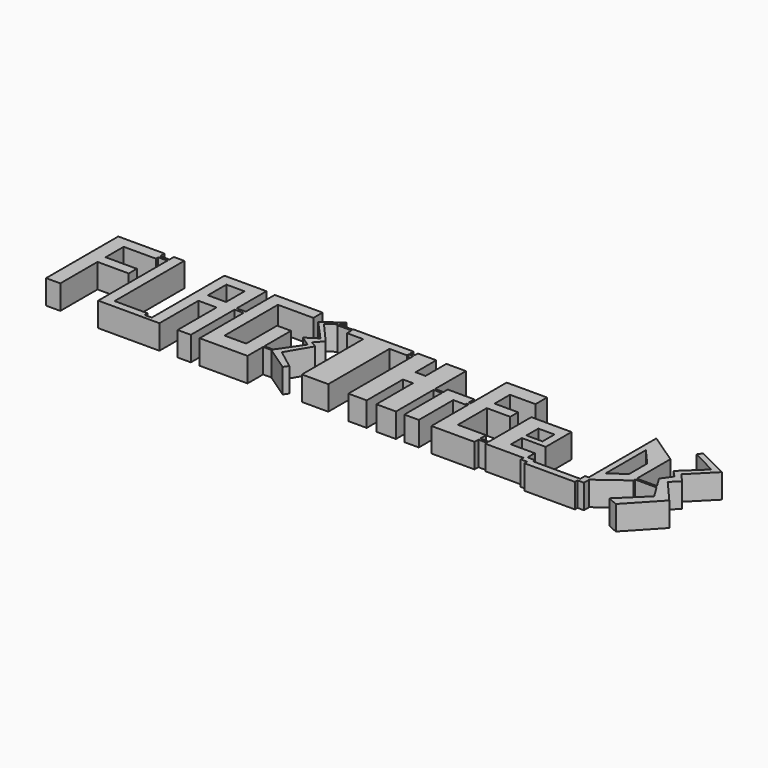
from build123d import *

# Parameters (mm, degrees)
F0_W     = 3.0946135521
F0_H     = 2.216280438
F0_W_2   = 3.4210085869
F0_H_2   = 3.5269353539
F0_W_3   = 2.2048056126
F0_H_3   = 2.6158541441
F0_W_4   = 5.976587534
F0_H_4   = 2.4974802509
F0_W_5   = 17.086148262
F0_H_5   = 14.3096456304
F0_H_6   = 5.9801498428
F0_W_6   = 16.8725550175
F0_W_7   = 8.1159174442
F0_H_7   = 15.5911063775
F0_H_8   = 12.1738770977
F0_W_8   = 8.9702308178
F0_W_9   = 3.3033788204
F0_W_10  = 15.5911147594
F0_H_9   = 15.1639524847
F0_H_10  = 10.251685977
F0_W_11  = 24.5613157749
F0_H_11  = 20.0762189925
F0_H_12  = 15.1639506221
F0_W_12  = 26.6970992088
F0_W_13  = 7.3466598988
F0_H_13  = 2.6071723551
F0_W_14  = 2.1357536316
F0_W_15  = 3.5534501076
F0_W_16  = 4.1363239288
F0_H_14  = 2.0857369527
F0_W_17  = 15.1639580727
F0_H_15  = 45.0647030957
F0_W_18  = 8.7566375732
F0_W_19  = 13.0281746387
F0_H_16  = 16.4454141632
F0_W_20  = 10.4652643204
F0_W_21  = 12.8146111965
F0_W_22  = 4.9122571945
F0_H_17  = 2.0175669342
F0_W_23  = 2.6585608721
F0_W_24  = 27.5513976812
F0_H_18  = 8.5430704057
F0_H_19  = 80.0913013518
F0_W_25  = 3.3793151379
F0_W_26  = 3.8181245327
F0_H_20  = 1.8906878671
F0_W_27  = 14.9934300457
F1_DEPTH = 25.4
F0_W_28  = 14.5472735167
F0_H_21  = 16.3432322443
F0_W_29  = 22.6290971041
F0_W_30  = 12.9309073091
F0_W_31  = 10.7757598162
F0_H_22  = 12.0329298079
F0_W_32  = 37.1763706207
F0_W_33  = 3.1519979239
F0_H_23  = 2.8678886592
F0_W_34  = 9.4031319022
F0_W_35  = 3.087900579
F0_W_36  = 13.8288959861
F0_H_24  = 51.0052535683
F0_H_25  = 24.2454539984
F0_H_26  = 11.3145448267
F0_W_37  = 19.037168473
F0_W_38  = 11.1349485815
F0_H_27  = 12.3921222985
F0_W_39  = 3.3698491752
F0_H_28  = 3.8613136858
F0_W_40  = 7.363434881
F0_W_41  = 10.9553541988
F0_H_29  = 7.7226273715
F0_W_42  = 3.4250831231
F0_H_30  = 2.6191230863
F0_W_43  = 9.6981818788
F0_W_44  = 2.780482173
F0_W_45  = 14.9064622819
F0_H_31  = 48.6705061048
F0_W_46  = 32.6864663512
F0_H_32  = 10.5961617082
F0_H_33  = 23.7066671252
F0_H_34  = 11.494141072


with BuildPart() as f1:
    # F0 (on Top) → F1 (new body)
    with BuildSketch(Plane.XY):
        Polygon((561.4933371544, -13.4736336768), (556.5618872643, -13.4736336768), (564.8164749146, -26.9472673535), (538.4017825127, -52.5999590755), (548.8152503967, -57.171728462), (579.0397524834, -24.9153729528), (557.4508309364, 0), (566.3064261608, 7.6732847192), (557.8295573884, 17.4562813584), (581.3255906105, 41.1212593317), (548.5612750053, 57.6304197311), (545.5134510994, 52.8046637774), (571.6741085052, 39.3433496356), (549.0692257881, 18.0084388703), (555.8641440733, 10.8090494471), (548.307299614, 0), (555.2040886502, -11.2573532388), (561.4933371544, -11.2573532388), align=None)
        Polygon((555.2040886502, -11.2573532388), (556.5618872643, -13.4736336768), (561.4933371544, -13.4736336768), (561.4933371544, -11.2573532388), align=None)
        Polygon((534.0840220451, -11.2573532388), (534.0840220451, -13.4736336768), (556.5618872643, -13.4736336768), (555.2040886502, -11.2573532388), align=None)
        with Locations((532.5367152691, -12.3654934578)):
            Rectangle(F0_W, F0_H)
        Polygon((502.0816326141, 54.3285869062), (502.0816326141, -34.2004597187), (504.9177408218, -34.2004597187), (504.9177408218, -37.0453285351), (534.0840220451, -15.5178513378), (534.0840220451, -13.4736336768), (530.989408493, -13.4736336768), (530.989408493, -11.2573532388), (534.0840220451, -11.2573532388), (534.0840220451, 32.739687711), align=None)
        Polygon((524.1785049438, -8.9141884819), (508.4313154221, -20.089616999), (508.4313154221, 32.739687711), (524.1785049438, 14.7066069767), align=None, mode=Mode.SUBTRACT)
        Polygon((504.9177408218, -34.2004597187), (502.0816326141, -34.2004597187), (502.0816326141, -39.1386449337), (504.9177408218, -37.0453285351), align=None)
        Polygon((498.2718527317, -34.2004597187), (498.2718527317, -40.4663495719), (498.2718527317, -43.9932849258), (504.9177408218, -43.9932849258), (504.9177408218, -37.0453285351), (502.0816326141, -39.1386449337), (502.0816326141, -34.2004597187), align=None)
        Polygon((448.8635361195, -43.9932849258), (445.4425275326, -43.9932849258), (445.4425275326, -47.5202202797), (498.2718527317, -47.5202202797), (498.2718527317, -43.9932849258), (498.2718527317, -40.4663495719), (448.8635361195, -40.4663495719), align=None)
        with Locations((447.153031826, -42.2298172489)):
            Rectangle(F0_W_2, F0_H_2)
        Polygon((440.9003555775, -40.4663495719), (438.6955499649, -40.4663495719), (438.6955499649, -43.9932849258), (445.4425275326, -43.9932849258), (445.4425275326, -40.4663495719), (448.8635361195, -40.4663495719), (448.8635361195, -37.8504954278), (440.9003555775, -37.8504954278), align=None)
        with Locations((439.7979527712, -39.1584224999)):
            Rectangle(F0_W_3, F0_H_3)
        Polygon((440.9003555775, -28.292471543), (415.9118831158, -28.292471543), (415.9118831158, -40.4663495719), (438.6955499649, -40.4663495719), (438.6955499649, -37.8504954278), (440.9003555775, -37.8504954278), align=None)
        Polygon((398.8257348537, -28.292471543), (398.8257348537, -35.8744477853), (404.8023223877, -35.8744477853), (404.8023223877, -38.3719280362), (398.8257348537, -38.3719280362), (398.8257348537, -40.4663495719), (415.9118831158, -40.4663495719), (415.9118831158, -28.292471543), align=None)
        with Locations((401.8140286207, -37.1231879108)):
            Rectangle(F0_W_4, F0_H_4)
        with Locations((407.3688089848, -21.1376487277)):
            Rectangle(F0_W_5, F0_H_5)
        with Locations((407.3688089848, -10.9927509911)):
            Rectangle(F0_W_5, F0_H_6)
        with Locations((424.3481606245, -10.9927509911)):
            Rectangle(F0_W_6, F0_H_6)
        with Locations((436.8423968554, -10.9927509911)):
            Rectangle(F0_W_7, F0_H_6)
        with Locations((436.8423968554, -0.207122881)):
            Rectangle(F0_W_7, F0_H_7)
        with Locations((436.8423968554, 13.6753688566)):
            Rectangle(F0_W_7, F0_H_8)
        with Locations((424.3481606245, 13.6753688566)):
            Rectangle(F0_W_6, F0_H_8)
        with Locations((407.3688089848, 13.6753688566)):
            Rectangle(F0_W_5, F0_H_8)
        with Locations((407.3688089848, -0.207122881)):
            Rectangle(F0_W_5, F0_H_7)
        with Locations((394.3406194448, -37.1231879108)):
            Rectangle(F0_W_8, F0_H_4)
        with Locations((388.2038146257, -37.1231879108)):
            Rectangle(F0_W_9, F0_H_4)
        Polygon((389.8555040359, -28.292471543), (360.3819012642, -28.292471543), (360.3819012642, -43.4564240277), (389.8555040359, -43.4564240277), (389.8555040359, -38.3719280362), (386.5521252155, -38.3719280362), (386.5521252155, -35.8744477853), (389.8555040359, -35.8744477853), align=None)
        with Locations((352.5863438845, -35.8744477853)):
            Rectangle(F0_W_10, F0_H_9)
        Polygon((344.7907865047, 9.5106214285), (344.7907865047, 8.0357193947), (352.1374464035, 8.0357193947), (352.1374464035, 5.4285470396), (344.7907865047, 5.4285470396), (344.7907865047, -28.292471543), (360.3819012642, -28.292471543), (360.3819012642, 9.5106214285), align=None)
        with Locations((352.5863438845, 14.636464417)):
            Rectangle(F0_W_10, F0_H_10)
        with Locations((372.6625591516, 14.636464417)):
            Rectangle(F0_W_11, F0_H_10)
        with Locations((352.5863438845, 29.8004169017)):
            Rectangle(F0_W_10, F0_H_11)
        with Locations((352.5863438845, 47.420501709)):
            Rectangle(F0_W_10, F0_H_12)
        with Locations((373.7304508686, 47.420501709)):
            Rectangle(F0_W_12, F0_H_12)
        with Locations((348.4641164541, 6.7321332172)):
            Rectangle(F0_W_13, F0_H_13)
        with Locations((343.7229096889, 6.7321332172)):
            Rectangle(F0_W_14, F0_H_13)
        with Locations((340.8783078194, 6.7321332172)):
            Rectangle(F0_W_15, F0_H_13)
        Polygon((342.6550328732, 15.2771892026), (330.0540149212, 15.2771892026), (330.0540149212, 3.5304655321), (342.6550328732, 3.5304655321), (342.6550328732, 5.4285470396), (339.1015827656, 5.4285470396), (339.1015827656, 8.0357193947), (342.6550328732, 8.0357193947), align=None)
        Polygon((314.8900568485, 15.2771892026), (314.8900568485, 9.6000181511), (319.0263807774, 9.6000181511), (319.0263807774, 7.5142811984), (314.8900568485, 7.5142811984), (314.8900568485, 3.5304655321), (330.0540149212, 3.5304655321), (330.0540149212, 15.2771892026), align=None)
        with Locations((316.9582188129, 8.5571496747)):
            Rectangle(F0_W_16, F0_H_14)
        with Locations((322.4720358849, -19.0018860158)):
            Rectangle(F0_W_17, F0_H_15)
        with Locations((310.5117380619, 8.5571496747)):
            Rectangle(F0_W_18, F0_H_14)
        Polygon((285.6300473213, 50.0902086496), (285.6300473213, 22.7523781359), (298.6582219601, 22.7523781359), (298.6582219601, 6.3069639727), (285.6300473213, 6.3069639727), (285.6300473213, -41.5342375636), (306.1334192753, -41.5342375636), (306.1334192753, 7.5142811984), (306.1334192753, 9.6000181511), (306.1334192753, 50.0902086496), align=None)
        with Locations((292.1441346407, 14.5296710543)):
            Rectangle(F0_W_19, F0_H_16)
        with Locations((280.3974151611, 14.5296710543)):
            Rectangle(F0_W_20, F0_H_16)
        with Locations((268.7574774027, 14.5296710543)):
            Rectangle(F0_W_21, F0_H_16)
        Polygon((255.942851305, 49.8766303062), (255.942851305, 46.0322480649), (259.3221664429, 46.0322480649), (259.3221664429, 44.0146811306), (255.942851305, 44.0146811306), (255.942851305, -41.1070883274), (275.1647830009, -41.1070883274), (275.1647830009, 6.3069639727), (262.3501718044, 6.3069639727), (262.3501718044, 22.7523781359), (275.1647830009, 22.7523781359), (275.1647830009, 49.8766303062), align=None)
        with Locations((253.4867227077, 45.0234645978)):
            Rectangle(F0_W_22, F0_H_17)
        with Locations((249.7013136744, 45.0234645978)):
            Rectangle(F0_W_23, F0_H_17)
        Polygon((251.0305941105, 50.3037832677), (232.6629906893, 50.3037832677), (232.6629906893, 41.760712862), (251.0305941105, 41.760712862), (251.0305941105, 44.0146811306), (248.3720332384, 44.0146811306), (248.3720332384, 46.0322480649), (251.0305941105, 46.0322480649), align=None)
        with Locations((218.8872918487, 46.0322480649)):
            Rectangle(F0_W_24, F0_H_18)
        with Locations((218.8872918487, 1.7150621861)):
            Rectangle(F0_W_24, F0_H_19)
        with Locations((257.6325088739, 45.0234645978)):
            Rectangle(F0_W_25, F0_H_17)
        Polygon((188.2390230894, 50.3037832677), (188.2390230894, 49.6702144286), (192.0571476221, 49.6702144286), (192.0571476221, 47.7795265615), (188.2390230894, 47.7795265615), (188.2390230894, 41.760712862), (205.111593008, 41.760712862), (205.111593008, 50.3037832677), align=None)
        with Locations((190.1480853558, 48.724870495)):
            Rectangle(F0_W_26, F0_H_20)
        with Locations((180.7423080666, 48.724870495)):
            Rectangle(F0_W_27, F0_H_20)
    extrude(amount=F1_DEPTH)


with BuildPart() as f1b:
    # F0 (on Top) → F1, piece 2 (new body)
    with BuildSketch(Plane.XY):
        Polygon((163.1175577641, -20.1217327267), (158.5196463977, -20.1217327267), (184.4628882256, -37.8241861746), (187.6897425745, -33.0951771159), (167.6543205976, -17.8761240095), (182.5125664473, 7.2685936466), (175.9878607109, 11.1241025154), (183.6555153131, 19.5869654417), (163.0825549364, 42.953774333), (173.2455930438, 49.6702144286), (177.6868104935, 52.60527879), (176.0358959436, 56.1611019075), (157.3678553104, 42.5727926195), (177.0518422127, 20.9838934243), (164.8604720831, 13.1102958694), (175.6549179554, 5.7446714491), (159.072301054, -18.5574311763), (163.1175577641, -18.5574311763), align=None)
        Polygon((158.1684254524, -19.8820759993), (158.5196463977, -20.1217327267), (163.1175577641, -20.1217327267), (163.1175577641, -18.5574311763), (159.072301054, -18.5574311763), align=None)
        Polygon((149.8471796513, -18.5574311763), (149.8471796513, -20.1217327267), (158.5196463977, -20.1217327267), (158.1684254524, -19.8820759993), (159.072301054, -18.5574311763), align=None)
        Polygon((135.2999061346, 16.4330322295), (135.2999061346, -24.1556577384), (149.8471796513, -24.1556577384), (149.8471796513, -20.1217327267), (149.8471796513, -18.5574311763), (149.8471796513, 16.4330322295), align=None)
        with Locations((142.5735428929, -32.3272738606)):
            Rectangle(F0_W_28, F0_H_21)
        with Locations((123.9853575826, -32.3272738606)):
            Rectangle(F0_W_29, F0_H_21)
        with Locations((106.205355376, -32.3272738606)):
            Rectangle(F0_W_30, F0_H_21)
        Polygon((102.8918996453, 16.9000960886), (99.7399017215, 16.9000960886), (99.7399017215, -24.1556577384), (112.6708090305, -24.1556577384), (112.6708090305, 45.7071699202), (101.8950492144, 45.7071699202), (101.8950492144, 57.7400997281), (99.7399017215, 57.7400997281), (99.7399017215, 19.7679847479), (102.8918996453, 19.7679847479), align=None)
        with Locations((107.2829291224, 51.7236348242)):
            Rectangle(F0_W_31, F0_H_22)
        with Locations((131.2589943409, 51.7236348242)):
            Rectangle(F0_W_32, F0_H_22)
        with Locations((101.3159006834, 18.3340404183)):
            Rectangle(F0_W_33, F0_H_23)
        with Locations((95.0383357704, 18.3340404183)):
            Rectangle(F0_W_34, F0_H_23)
        with Locations((88.7928195298, 18.3340404183)):
            Rectangle(F0_W_35, F0_H_23)
        Polygon((76.5078738332, 23.0780821294), (76.5078738332, 10.6859598309), (90.3367698193, 10.6859598309), (90.3367698193, 16.9000960886), (87.2488692403, 16.9000960886), (87.2488692403, 19.7679847479), (90.3367698193, 19.7679847479), (90.3367698193, 23.0780821294), align=None)
        with Locations((83.4223218262, -14.8166669533)):
            Rectangle(F0_W_36, F0_H_24)
        with Locations((83.4223218262, 35.2008091286)):
            Rectangle(F0_W_36, F0_H_25)
        with Locations((83.4223218262, 52.9808085412)):
            Rectangle(F0_W_36, F0_H_26)
        with Locations((66.9892895967, 52.9808085412)):
            Rectangle(F0_W_37, F0_H_26)
        with Locations((51.9032310694, 52.9808085412)):
            Rectangle(F0_W_38, F0_H_26)
        with Locations((51.9032310694, 35.2008091286)):
            Rectangle(F0_W_38, F0_H_25)
        with Locations((51.9032310694, 16.8820209801)):
            Rectangle(F0_W_38, F0_H_27)
        with Locations((66.9892895967, 16.8820209801)):
            Rectangle(F0_W_37, F0_H_27)
        Polygon((46.3357567787, 10.6859598309), (46.3357567787, -36.4579800516), (49.7056059539, -36.4579800516), (49.7056059539, -40.3192937374), (57.4707053602, -40.3192937374), (57.4707053602, 10.6859598309), align=None)
        with Locations((48.0206813663, -38.3886368945)):
            Rectangle(F0_W_39, F0_H_28)
        with Locations((42.6540393382, -38.3886368945)):
            Rectangle(F0_W_40, F0_H_28)
        Polygon((38.9723218977, -32.5966663659), (4.3103038333, -32.5966663659), (4.3103038333, -40.3192937374), (38.9723218977, -40.3192937374), (38.9723218977, -36.4579800516), align=None)
        with Locations((-1.1673732661, -36.4579800516)):
            Rectangle(F0_W_41, F0_H_29)
        Polygon((-3.2199672423, 50.2718873322), (-6.6450503655, 50.2718873322), (-6.6450503655, -32.5966663659), (4.3103038333, -32.5966663659), (4.3103038333, 58.6380809546), (-6.6450503655, 58.6380809546), (-6.6450503655, 52.8910104185), (-3.2199672423, 52.8910104185), align=None)
        with Locations((-4.9325088039, 51.5814488754)):
            Rectangle(F0_W_42, F0_H_30)
        with Locations((-11.4941413049, 51.5814488754)):
            Rectangle(F0_W_43, F0_H_30)
        with Locations((-17.7334733307, 51.5814488754)):
            Rectangle(F0_W_44, F0_H_30)
        with Locations((-57.3809091002, -11.4941420034)):
            Rectangle(F0_W_45, F0_H_31)
        with Locations((-33.5844447836, 18.1391919032)):
            Rectangle(F0_W_46, F0_H_32)
        with Locations((-57.3809091002, 18.1391919032)):
            Rectangle(F0_W_45, F0_H_32)
        with Locations((-57.3809091002, 35.2906063199)):
            Rectangle(F0_W_45, F0_H_33)
        with Locations((-57.3809091002, 52.8910104185)):
            Rectangle(F0_W_45, F0_H_34)
        Polygon((-49.9276779592, 58.6380809546), (-49.9276779592, 47.1439398825), (-16.3432322443, 47.1439398825), (-16.3432322443, 50.2718873322), (-19.1237144172, 50.2718873322), (-19.1237144172, 52.8910104185), (-16.3432322443, 52.8910104185), (-16.3432322443, 58.6380809546), align=None)
    extrude(amount=F1_DEPTH)


solid = Compound([f1.part, f1b.part])
